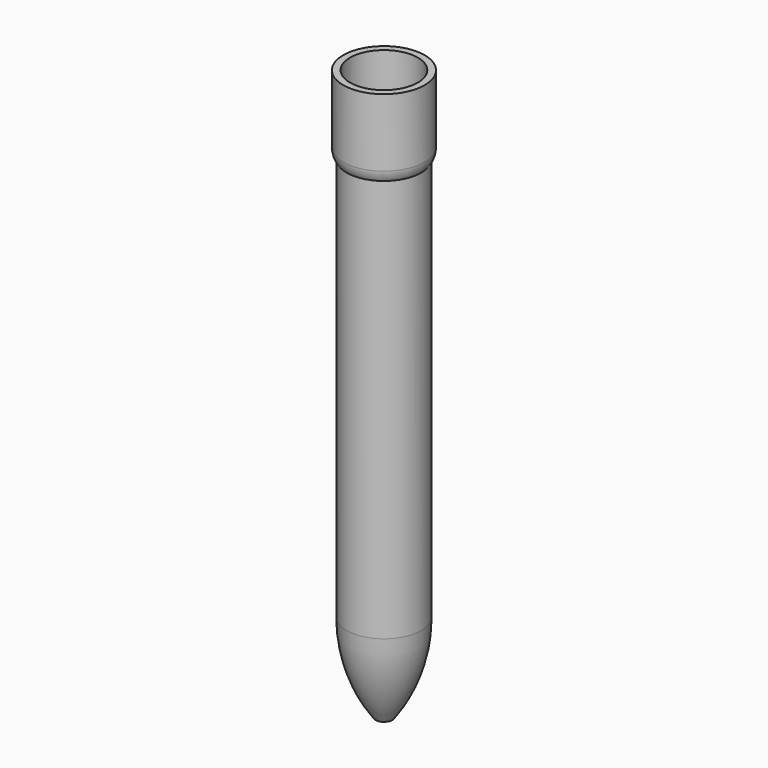
from build123d import *


with BuildPart() as f1:
    # F0 (on Front) → F1 (revolve)
    with BuildSketch(Plane.XZ):
        with BuildLine():
            Line((-4.5, 11.224317), (-4.5, 74.224317))
            Line((-4.5, 74.224317), (-5, 74.224317))
            Line((-5, 74.224317), (-5, 82.224317))
            Line((-5, 82.224317), (-6, 82.224317))
            Line((-6, 82.224317), (-6, 72.224317))
            ThreePointArc((-6, 72.224317), (-5.871869, 71.414756), (-5.5, 70.684332))
            Line((-5.5, 70.684332), (-5.5, 11.224317))
            ThreePointArc((-5.5, 11.224317), (-4.410533, 4.385777), (-1.25, -1.775683))
            Line((-1.25, -1.775683), (-1.25, 0))
            ThreePointArc((-1.25, 0), (-3.671149, 5.381634), (-4.5, 11.224317))
        make_face()
    revolve(axis=Axis((0, 0, 28.983496), (0, 0, 1)))


solid = f1.part
